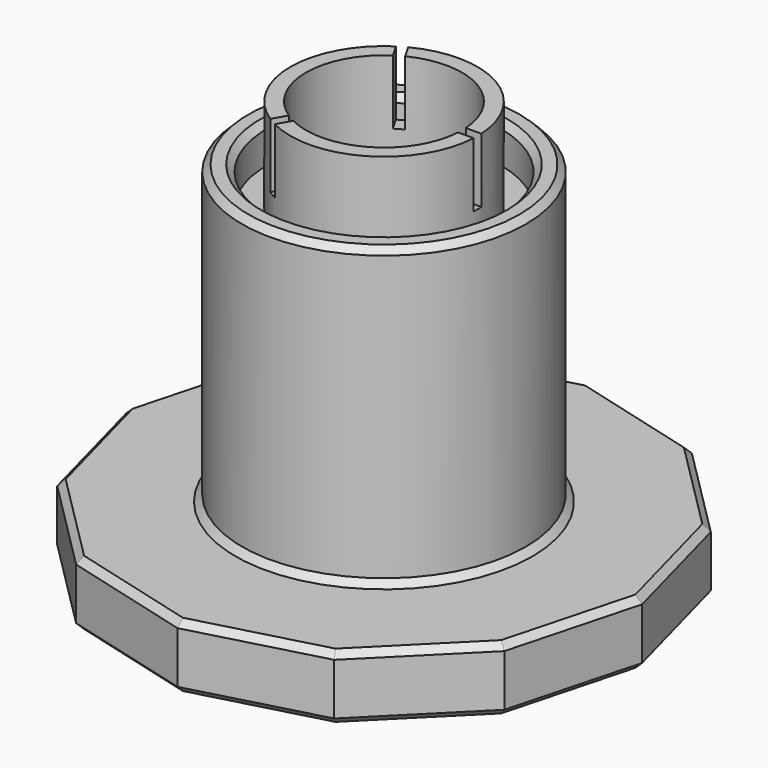
from build123d import *

# Parameters (mm, degrees)
SKETCH_R             = 14.5
SKETCH_R_2           = 12.1
PAD_DEPTH            = 14.6
SKETCH001_W          = 30.380329
SKETCH001_H          = 1.5
POCKET_DEPTH         = 97.067871
POLARPATTERN_COUNT   = 3
SKETCH003_R          = 22
PAD001_DEPTH         = 40
SKETCH004_R          = 22
SKETCH004_R_2        = 18.1
PAD002_DEPTH         = 6
PAD003_DEPTH         = 10
SKETCH005_R          = 11
POCKET001_DEPTH      = 50.001
POCKET001_DEPTH_BACK = 14.601
CHAMFER_SIZE         = 1


with BuildPart() as part:
    # Sketch → Pad (new body)
    with BuildSketch(Plane.XY):
        Circle(SKETCH_R)
        Circle(SKETCH_R_2, mode=Mode.SUBTRACT)
    extrude(amount=PAD_DEPTH)

    # Sketch001 → Pocket (cut, through all)
    with BuildSketch(Plane.XY.offset(4.6)):
        with Locations((15.190164, 0)):
            Rectangle(SKETCH001_W, SKETCH001_H)
    pocket = extrude(amount=POCKET_DEPTH, mode=Mode.SUBTRACT)

    # PolarPattern: Pocket ×3 about axis
    polarpattern_axis = Axis((0, 0, 4.6), (0, 0, 1))
    for i in range(1, POLARPATTERN_COUNT):
        add(pocket.rotate(polarpattern_axis, i * 360 / POLARPATTERN_COUNT), mode=Mode.SUBTRACT)

    # Sketch003 → Pad001 (join)
    with BuildSketch(Plane.XY):
        Circle(SKETCH003_R)
    extrude(amount=-PAD001_DEPTH)

    # Sketch004 → Pad002 (join)
    with BuildSketch(Plane.XY):
        Circle(SKETCH004_R)
        Circle(SKETCH004_R_2, mode=Mode.SUBTRACT)
    extrude(amount=PAD002_DEPTH)

    # Sketch002 → Pad003 (join)
    with BuildSketch(Plane.XY.offset(-40)):
        Polygon((20, -34.641016), (34.641016, -20), (40, 0), (34.641016, 20), (20, 34.641016), (0, 40), (-20, 34.641016), (-34.641016, 20), (-40, 0), (-34.641016, -20), (-20, -34.641016), (0, -40), align=None)
    extrude(amount=-PAD003_DEPTH)

    # Sketch005 → Pocket001 (cut, two sides)
    with BuildSketch(Plane.XY) as pocket001_sk:
        Circle(SKETCH005_R)
    extrude(amount=-POCKET001_DEPTH, mode=Mode.SUBTRACT)
    extrude(pocket001_sk.sketch, amount=POCKET001_DEPTH_BACK, mode=Mode.SUBTRACT)

    # Chamfer
    chamfer_edges = [part.edges().sort_by_distance(p)[0] for p in [
        (27.320508, -27.320508, -50),
        (10, -37.320508, -50),
        (37.320508, -10, -50),
        (-10, -37.320508, -50),
        (37.320508, 10, -50),
        (-27.320508, -27.320508, -50),
        (27.320508, 27.320508, -50),
        (-37.320508, -10, -50),
        (10, 37.320508, -50),
        (-37.320508, 10, -50),
        (-10, 37.320508, -50),
        (-27.320508, 27.320508, -50),
        (-11, 0, -50),
        (27.320508, -27.320508, -40),
        (10, -37.320508, -40),
        (37.320508, -10, -40),
        (-10, -37.320508, -40),
        (37.320508, 10, -40),
        (-27.320508, -27.320508, -40),
        (27.320508, 27.320508, -40),
        (-37.320508, -10, -40),
        (10, 37.320508, -40),
        (-37.320508, 10, -40),
        (-10, 37.320508, -40),
        (-27.320508, 27.320508, -40),
        (-22, 0, -40),
        (-22, 0, 6),
        (-18.1, 0, 6),
    ]]
    chamfer(chamfer_edges, length=CHAMFER_SIZE)


solid = part.part
